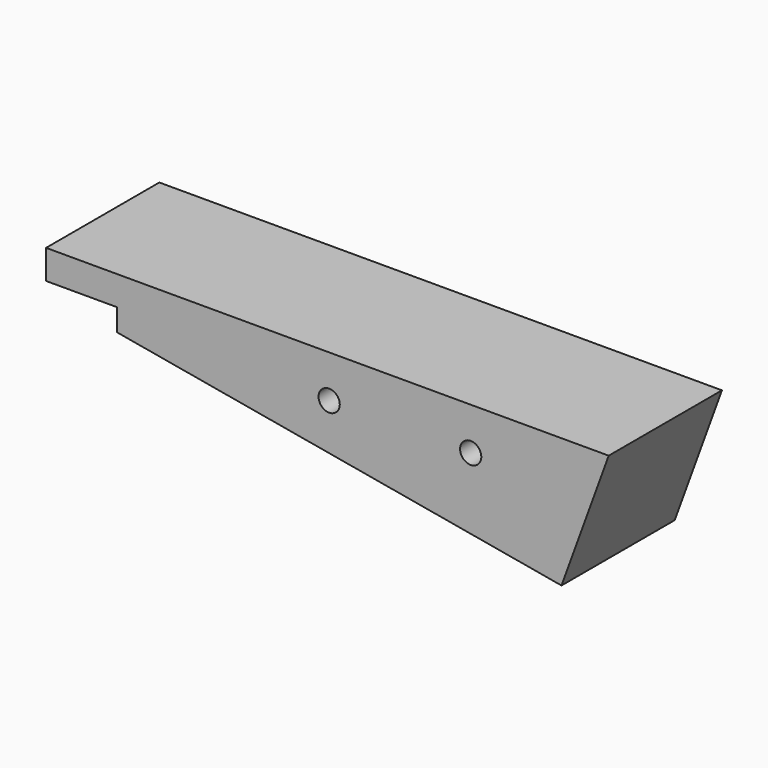
from build123d import *

# Parameters (mm, degrees)
F0_R     = 1.5
F1_DEPTH = 10


with BuildPart() as f1:
    # F0 (on Front) → F1 (new body, symmetric)
    with BuildSketch(Plane.XZ):
        Polygon((79.5, 0), (0, 0), (0, -4.123699), (10, -4.123699), (10, -7.245275), (72.830607, -18.324006), align=None)
        with Locations((40, -6)):
            Circle(F0_R, mode=Mode.SUBTRACT)
        with Locations((60, -6)):
            Circle(F0_R, mode=Mode.SUBTRACT)
    extrude(amount=F1_DEPTH, both=True)


solid = f1.part
